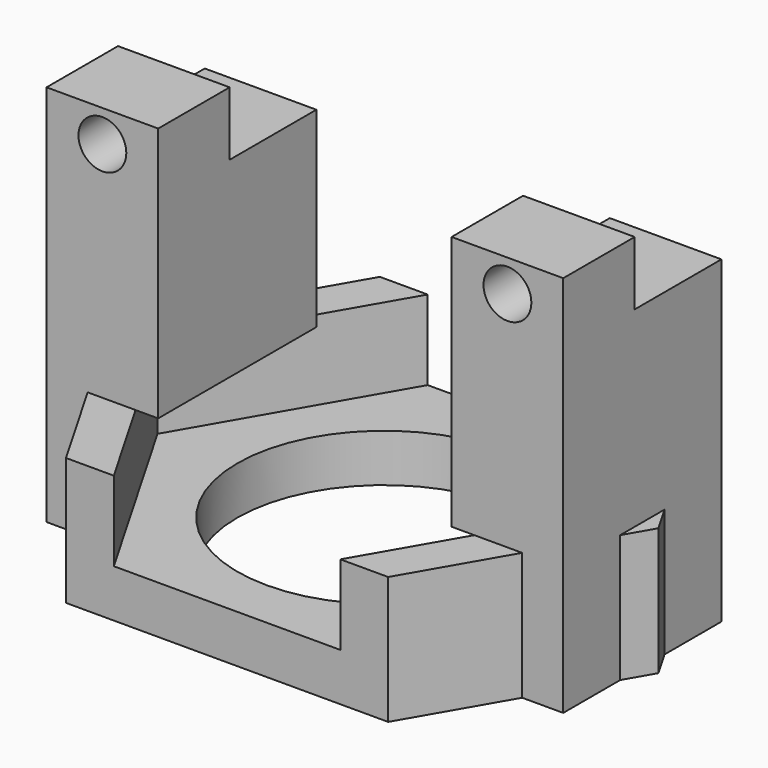
from build123d import *

# Parameters (mm, degrees)
F0_R     = 9.2
F1_DEPTH = 3
F2_DEPTH = 8
F3_W     = 7
F3_H     = 12.4
F4_DEPTH = 16
F5_DEPTH = 8
F6_R     = 1.5
F7_DEPTH = 18.501
F8_START = -5.6
F6_W     = 7
F6_H     = 4
F8_DEPTH = 6.8


with BuildPart() as f1:
    # F0 (on Top) → F1 (new body)
    with BuildSketch(Plane.XY):
        Polygon((-7.101408311, -12.3), (-14.2028166221, 0), (-7.101408311, 12.3), (-10.101408311, 12.3), (-17.2028166221, 0), (-10.101408311, -12.3), align=None)
        Polygon((-7.101408311, 12.3), (-14.2028166221, 0), (-7.101408311, -12.3), (7.101408311, -12.3), (14.2028166221, 0), (7.101408311, 12.3), align=None)
        Circle(F0_R, mode=Mode.SUBTRACT)
        Polygon((10.101408311, 12.3), (7.101408311, 12.3), (14.2028166221, 0), (7.101408311, -12.3), (10.101408311, -12.3), (17.2028166221, 0), align=None)
    extrude(amount=F1_DEPTH)

    # F0 (on Top) → F2 (join)
    with BuildSketch(Plane.XY):
        Polygon((-7.101408311, -12.3), (-14.2028166221, 0), (-7.101408311, 12.3), (-10.101408311, 12.3), (-17.2028166221, 0), (-10.101408311, -12.3), align=None)
        Polygon((10.101408311, 12.3), (7.101408311, 12.3), (14.2028166221, 0), (7.101408311, -12.3), (10.101408311, -12.3), (17.2028166221, 0), align=None)
    extrude(amount=F2_DEPTH)

    # F3 (on face) → F4 (join)
    with BuildSketch(Plane.XY.offset(8)):
        Polygon((-16.2, 1.7369293401), (-13.6232449531, 6.2), (-16.2, 6.2), align=None)
        Polygon((-14.2028166221, 0), (-10.6232449531, 6.2), (-13.6232449531, 6.2), (-16.2, 1.7369293401), (-16.2, -1.7369293401), (-13.6232449531, -6.2), (-10.6232449531, -6.2), align=None)
        Polygon((-16.2, -6.2), (-13.6232449531, -6.2), (-16.2, -1.7369293401), align=None)
        Polygon((-14.2028166221, 0), (-10.6232449531, 6.2), (-13.6232449531, 6.2), (-16.2, 1.7369293401), (-16.2, -1.7369293401), (-13.6232449531, -6.2), (-10.6232449531, -6.2), align=None)
        Polygon((-9.2, -6.2), (-9.2, 6.2), (-10.6232449531, 6.2), (-14.2028166221, 0), (-10.6232449531, -6.2), align=None)
        with Locations((12.7, 0)):
            Rectangle(F3_W, F3_H)
    extrude(amount=F4_DEPTH)

    # F5 (add, through all): faces of the model
    f5_faces = [f1.faces().sort_by_distance(p)[0] for p in [
        (-15.341081651, 4.71230978, 8),
        (15.341081651, 4.71230978, 8),
        (15.341081651, -4.71230978, 8),
        (-15.341081651, -4.71230978, 8),
    ]]
    extrude(f5_faces, amount=F5_DEPTH)

    # F6 (on face) → F7 (cut, through all)
    with BuildSketch(Plane.XZ.offset(6.2)):
        with Locations((-12.7, 22)):
            Circle(F6_R)
        with Locations((12.7, 22)):
            Circle(F6_R)
    extrude(amount=-F7_DEPTH, mode=Mode.SUBTRACT)

    # F6 (on face) → F8 (cut)
    with BuildSketch(Plane.XZ.offset(6.2).offset(F8_START)):
        with Locations((-12.7, 22)):
            Rectangle(F6_W, F6_H)
        with Locations((-12.7, 22)):
            Circle(F6_R, mode=Mode.SUBTRACT)
        with Locations((12.7, 22)):
            Rectangle(F6_W, F6_H)
        with Locations((12.7, 22)):
            Circle(F6_R, mode=Mode.SUBTRACT)
    extrude(amount=-F8_DEPTH, mode=Mode.SUBTRACT)


solid = f1.part
